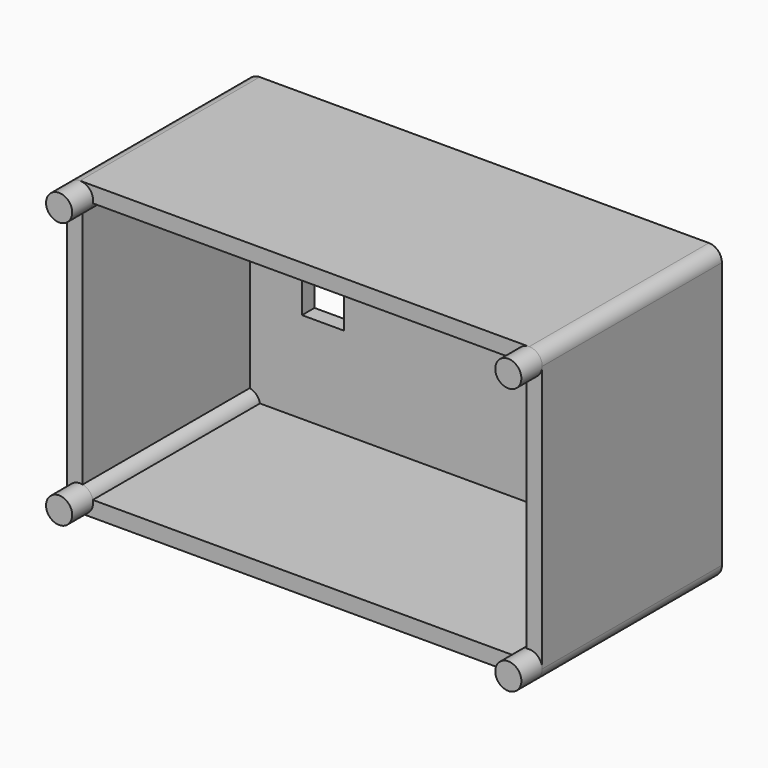
from build123d import *

# Parameters (mm, degrees)
PAD_DEPTH     = 43
SKETCH001_W   = 85
SKETCH001_H   = 50
SKETCH001_W_2 = 8
SKETCH001_H_2 = 15
PAD001_DEPTH  = 3
SKETCH002_R   = 2.5
PAD002_DEPTH  = 48


with BuildPart() as part:
    # Sketch → Pad (new body)
    with BuildSketch(Plane.XZ):
        with BuildLine():
            Line((-43, 28), (43, 28))
            ThreePointArc((45.5, 25.5), (44.767767, 27.267767), (43, 28))
            Line((45.5, 25.5), (45.5, -25.5))
            ThreePointArc((43, -28), (44.767767, -27.267767), (45.5, -25.5))
            Line((43, -28), (-43, -28))
            ThreePointArc((-45.5, -25.5), (-44.767767, -27.267767), (-43, -28))
            Line((-45.5, -25.5), (-45.5, 25.5))
            ThreePointArc((-43, 28), (-44.767767, 27.267767), (-45.5, 25.5))
        make_face()
        with BuildLine():
            Line((-40.55051, 25), (40.55051, 25))
            ThreePointArc((40.55051, 25), (41.232233, 23.732233), (42.5, 23.05051))
            Line((42.5, 23.05051), (42.5, -23.05051))
            ThreePointArc((42.5, -23.05051), (41.232233, -23.732233), (40.55051, -25))
            Line((40.55051, -25), (-40.55051, -25))
            ThreePointArc((-40.55051, -25), (-41.232233, -23.732233), (-42.5, -23.05051))
            Line((-42.5, -23.05051), (-42.5, 23.05051))
            ThreePointArc((-42.5, 23.05051), (-41.232233, 23.732233), (-40.55051, 25))
        make_face(mode=Mode.SUBTRACT)
    extrude(amount=PAD_DEPTH)

    # Sketch001 → Pad001 (join)
    with BuildSketch(Plane.XZ):
        Rectangle(SKETCH001_W, SKETCH001_H)
        with Locations((-28.5, 0)):
            Rectangle(SKETCH001_W_2, SKETCH001_H_2, mode=Mode.SUBTRACT)
    extrude(amount=PAD001_DEPTH)

    # Sketch002 → Pad002 (join)
    with BuildSketch(Plane.XZ):
        with Locations((-43, 25.5)):
            Circle(SKETCH002_R)
        with Locations((43, 25.5)):
            Circle(SKETCH002_R)
        with Locations((43, -25.5)):
            Circle(SKETCH002_R)
        with Locations((-43, -25.5)):
            Circle(SKETCH002_R)
    extrude(amount=PAD002_DEPTH)


solid = part.part
